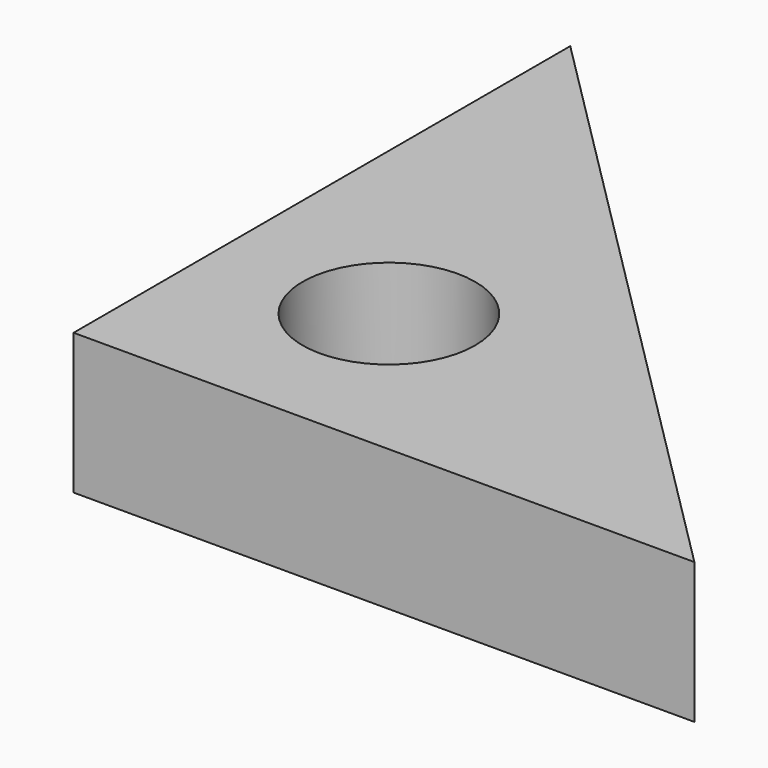
from build123d import *

# Parameters (mm, degrees)
F1_DEPTH = 10.2
F2_R     = 6.25
F3_DEPTH = 10.201


with BuildPart() as f1:
    # F0 (on Top) → F1 (new body)
    with BuildSketch(Plane.XY):
        Polygon((-12.468413, 32.017755), (-12.468413, -12.982245), (32.531587, -12.982245), align=None)
    extrude(amount=F1_DEPTH)

    # F2 (on face) → F3 (cut, through all)
    with BuildSketch(Plane.XY.offset(10.2)):
        Circle(F2_R)
    extrude(amount=-F3_DEPTH, mode=Mode.SUBTRACT)


solid = f1.part
